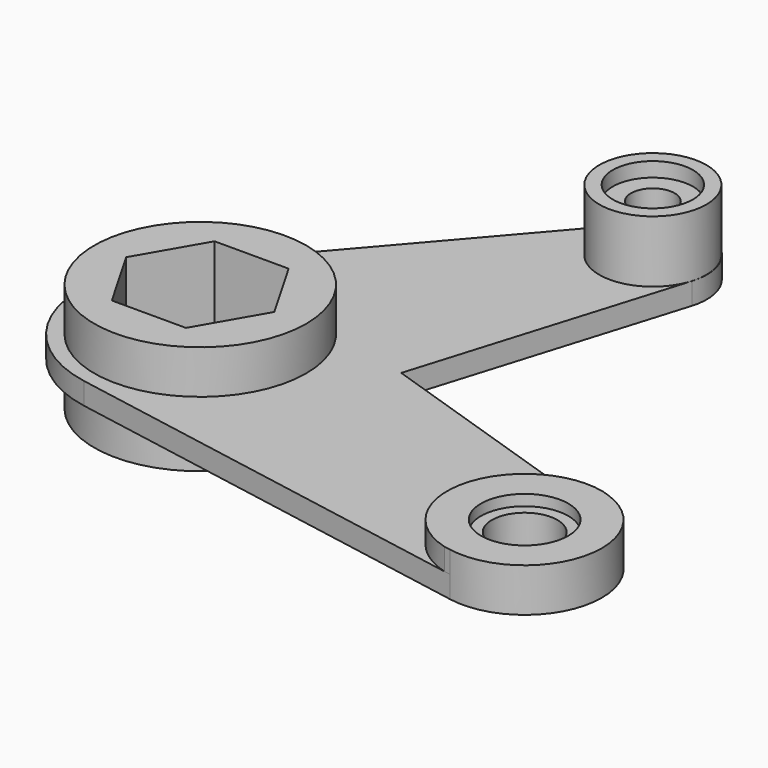
from build123d import *

# Parameters (mm, degrees)
F1_DEPTH        = 1.905
F2_R            = 9.34282
F3_DEPTH        = 12.7
F5_DEPTH        = 3.81
F6_R            = 18.50711
F7_DEPTH        = 9.525
F9_D            = 7.62
F9_DEPTH        = 101.6
F9_CBORE_D      = 13.97
F9_CBORE_DEPTH  = 2.54
F11_D           = 11.43
F11_DEPTH       = 101.6
F11_CBORE_D     = 15.24
F11_CBORE_DEPTH = 1.905
F13_DEPTH       = 19.051


with BuildPart() as f1:
    # F0 (on Top) → F1 (new body, symmetric)
    with BuildSketch(Plane.XY):
        with BuildLine():
            Line((-26.829338, 62.961267), (-69.205798, 13.704629))
            ThreePointArc((-69.205798, 13.704629), (-73.078408, -7.031412), (-56.99586, -20.681764))
            Line((-56.99586, -20.681764), (17.632922, -34.104249))
            ThreePointArc((17.632922, -34.104249), (33.078712, -24.160767), (24.254834, -8.049144))
            Line((24.254834, -8.049144), (-24.750318, 8.18019))
            Line((-24.750318, 8.18019), (-10.746106, 54.107821))
            ThreePointArc((-10.746106, 54.107821), (-15.194985, 65.061135), (-26.829338, 62.961267))
        make_face()
    extrude(amount=F1_DEPTH, both=True)

    # F2 (on Top) → F3 (join)
    with BuildSketch(Plane.XY):
        with Locations((-19.710172, 56.779236)):
            Circle(F2_R)
    extrude(amount=F3_DEPTH)

    # F4 (on face) → F5 (join)
    with BuildSketch(Plane.XY.offset(1.905)):
        with BuildLine():
            Line((24.254834, -8.049144), (23.161608, -7.687093))
            ThreePointArc((23.161608, -7.687093), (6.910327, -17.510066), (16.499491, -33.900394))
            Line((16.499491, -33.900394), (17.632922, -34.104249))
            ThreePointArc((17.632922, -34.104249), (33.078712, -24.160767), (24.254834, -8.049144))
        make_face()
    extrude(amount=F5_DEPTH)

    # F6 (on Top) → F7 (join, symmetric)
    with BuildSketch(Plane.XY):
        with Locations((-53.276106, 0)):
            Circle(F6_R)
    extrude(amount=F7_DEPTH, both=True)

    # F9
    with Locations(Plane.XY.offset(12.7)):
        with Locations((-19.710172, 56.779236)):
            CounterBoreHole(F9_D / 2, F9_CBORE_D / 2, F9_CBORE_DEPTH, depth=F9_DEPTH)

    # F11
    with Locations(Plane.XY.offset(5.715)):
        with Locations((20.018323, -20.841466)):
            CounterBoreHole(F11_D / 2, F11_CBORE_D / 2, F11_CBORE_DEPTH, depth=F11_DEPTH)

    # F12 (on face) → F13 (cut, through all)
    with BuildSketch(Plane.XY.offset(9.525)):
        Polygon((-46.810882, 11.198097), (-59.74133, 11.198097), (-66.206555, 0), (-59.74133, -11.198097), (-46.810882, -11.198097), (-40.345658, 0), align=None)
    extrude(amount=-F13_DEPTH, mode=Mode.SUBTRACT)


solid = f1.part
